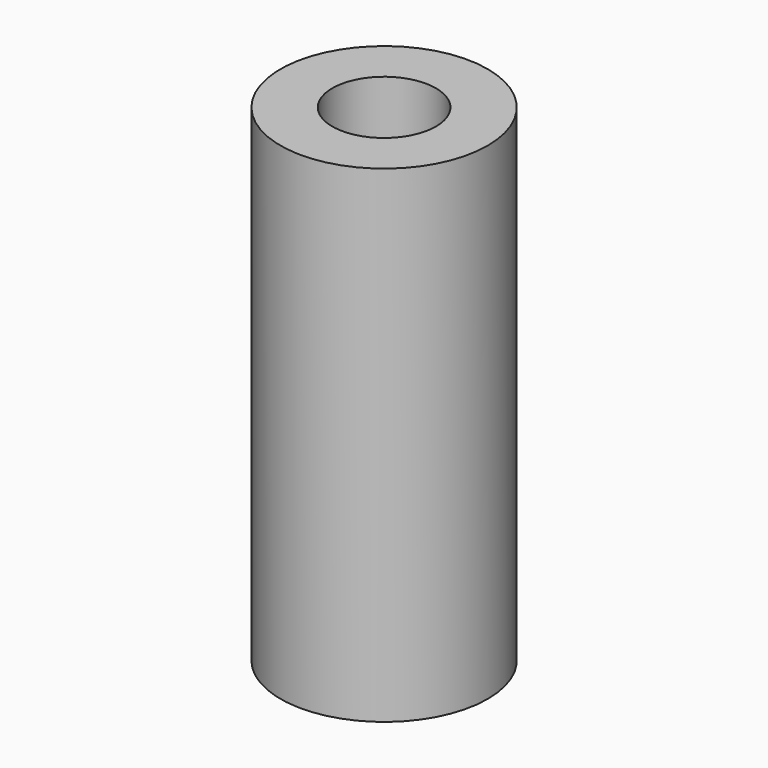
from build123d import *

# Parameters (mm, degrees)
SKETCH316_R      = 1
EXTRUDE181_DEPTH = 9.4
SKETCH317_R      = 2
EXTRUDE182_DEPTH = 9.4


with BuildPart() as extrude181:
    # Sketch316 → Extrude181 (new body)
    with BuildSketch(Plane.XY.offset(6.6)):
        with Locations((36, -22)):
            Circle(SKETCH316_R)
    extrude(amount=EXTRUDE181_DEPTH)


with BuildPart() as cut081:
    # Sketch317 → Extrude182 (new body)
    with BuildSketch(Plane.XY.offset(6.6)):
        with Locations((36, -22)):
            Circle(SKETCH317_R)
    extrude(amount=EXTRUDE182_DEPTH)

    # Cut081: cut Extrude181
    add(extrude181.part, mode=Mode.SUBTRACT)


with BuildPart() as cut081_1:
    # Cut081 placement: moved
    add(cut081.part.moved(Location((-51, 0, 0))))


solid = cut081_1.part
